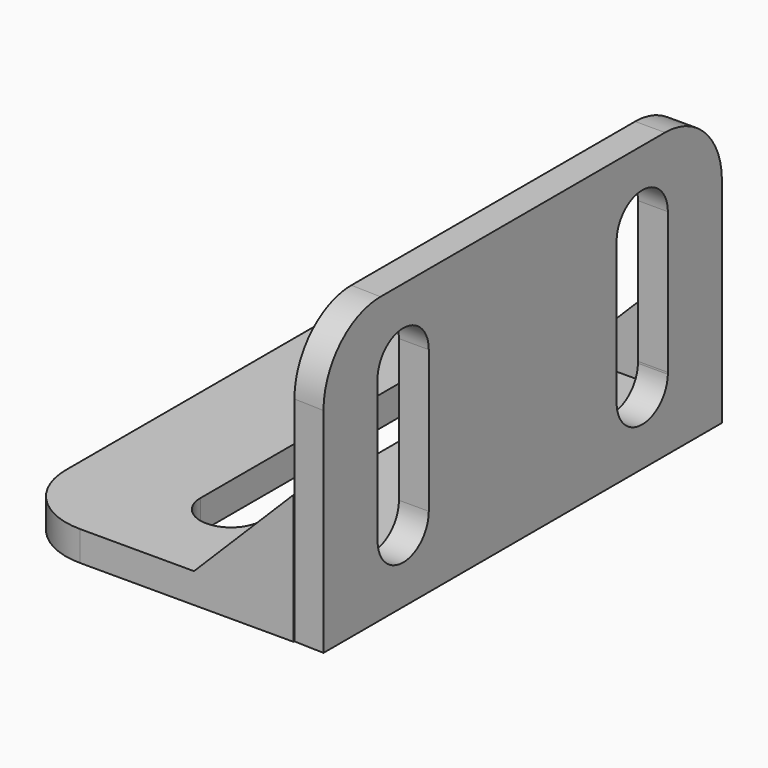
from build123d import *

# Parameters (mm, degrees)
F1_DEPTH  = 2.1
F3_DEPTH  = 20
F5_DEPTH  = 2.1
F6_R      = 5
F8_DEPTH  = 2
F11_DEPTH = 2


with BuildPart() as f1:
    # F0 (on Top) → F1 (new body)
    with BuildSketch(Plane.XY):
        with BuildLine():
            Line((-15, 0), (0, 0))
            Line((0, 0), (0, 35))
            Line((0, 35), (-15, 35))
            ThreePointArc((-15, 35), (-18.5355339059, 33.5355339059), (-20, 30))
            Line((-20, 30), (-20, 5))
            ThreePointArc((-20, 5), (-18.5355339059, 1.4644660941), (-15, 0))
        make_face()
        with BuildLine():
            ThreePointArc((-12.1489869425, 27.9340066588), (-10.0330005573, 30.1497467207), (-7.85, 27.9999999982))
            Line((-7.85, 27.9999999982), (-7.8500000178, 7))
            ThreePointArc((-7.8500000178, 7), (-10.0000000178, 4.85), (-12.1500000178, 7))
            ThreePointArc((-12.1500000178, 7), (-12.1500000172, 7.0000520234), (-12.1500000153, 7.0001040468))
            Line((-12.1500000153, 7.0001040468), (-12.1489869425, 27.9340066588))
        make_face(mode=Mode.SUBTRACT)
    extrude(amount=F1_DEPTH)

    # F2 (on Top) → F3 (join)
    with BuildSketch(Plane.XY):
        Polygon((0, 35), (0, 0.0720546025), (2.1, 0), (2.1, 35), align=None)
    extrude(amount=F3_DEPTH)

    # F4 (on Right) → F5 (cut, through all)
    with BuildSketch(Plane.YZ):
        with BuildLine():
            Line((9.25, 5), (9.25, 15))
            ThreePointArc((9.25, 15), (7, 17.25), (4.75, 15))
            ThreePointArc((4.75, 15), (4.7500000019, 14.9999071898), (4.7500000077, 14.9998143795))
            Line((4.7500000077, 14.9998143795), (4.7508199613, 5.0607384035))
            Line((4.7508199613, 5.0607384035), (4.7508300135, 4.9388904917))
            ThreePointArc((4.7508300135, 4.9388904917), (7.0305575724, 2.750207513), (9.25, 5))
        make_face()
        with BuildLine():
            ThreePointArc((4.7508199613, 5.0607384035), (4.7500000077, 4.9998143795), (4.7508300135, 4.9388904917))
            Line((4.7508300135, 4.9388904917), (4.7508199613, 5.0607384035))
        make_face()
        with BuildLine():
            ThreePointArc((25.75, 5), (27.9694424276, 2.750207513), (30.2491699865, 4.9388904917))
            Line((30.2491699865, 4.9388904917), (30.2491800387, 5.0607384035))
            Line((30.2491800387, 5.0607384035), (30.2499999923, 14.9998143795))
            Line((30.2499999923, 14.9998143795), (30.2500000077, 15))
            ThreePointArc((30.25, 15), (28, 17.25), (25.75, 15))
            Line((25.75, 15), (25.75, 5))
        make_face()
        with BuildLine():
            Line((30.2491800387, 5.0607384035), (30.2491699865, 4.9388904917))
            ThreePointArc((30.2491699865, 4.9388904917), (30.2499999923, 4.9998143795), (30.2491800387, 5.0607384035))
        make_face()
    extrude(amount=F5_DEPTH, mode=Mode.SUBTRACT)

    # F6
    f6_edges = [f1.edges().sort_by_distance(p)[0] for p in [
        (1.05, 35, 20),
        (1.05, 0.036027, 20),
    ]]
    fillet(f6_edges, radius=F6_R)

    # F7 (on Front) → F8 (join)
    with BuildSketch(Plane.XZ):
        Polygon((-7, 2.1), (0, 2.1), (0, 9.1), align=None)
    extrude(amount=-F8_DEPTH)

    # F10 (on offset) → F11 (join)
    with BuildSketch(Plane(origin=(0, 35, 0), x_dir=(-1, 0, 0), z_dir=(0, 1, 0))):
        Polygon((0, 9.1), (0, 2.1), (7, 2.1), align=None)
    extrude(amount=-F11_DEPTH)


solid = f1.part
